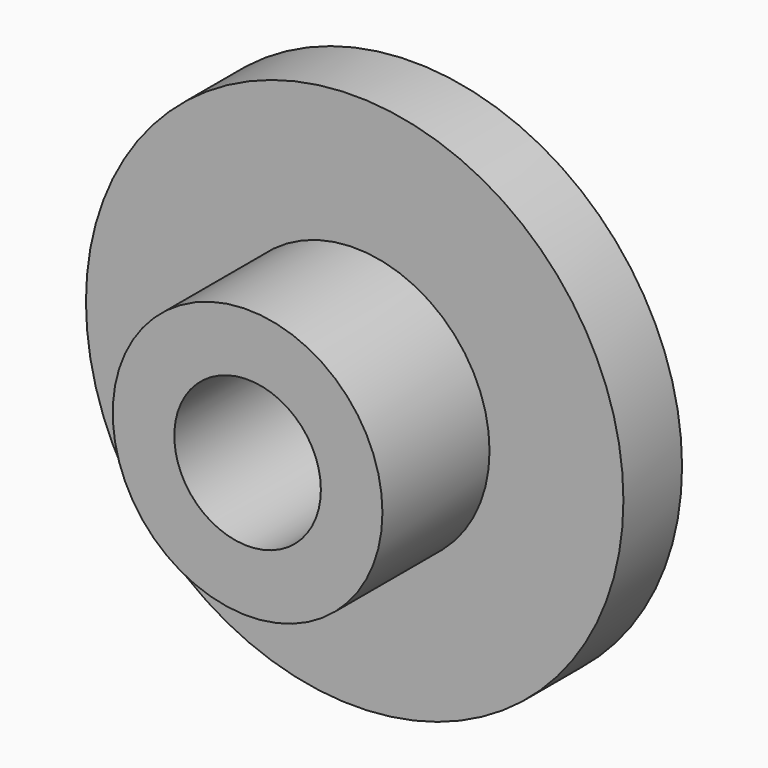
from build123d import *

# Parameters (mm, degrees)
F0_R     = 69.85
F1_DEPTH = 19.05
F2_R     = 35.052
F3_DEPTH = 34.798
F4_R     = 19.05
F5_DEPTH = 53.849


with BuildPart() as f1:
    # F0 (on Front) → F1 (new body)
    with BuildSketch(Plane.XZ):
        with Locations((-39.630193, -28.484197)):
            Circle(F0_R)
    extrude(amount=F1_DEPTH)

    # F2 (on face) → F3 (join)
    with BuildSketch(Plane.XZ.offset(19.05)):
        with Locations((-39.630193, -28.484197)):
            Circle(F2_R)
    extrude(amount=F3_DEPTH)

    # F4 (on face) → F5 (cut, through all)
    with BuildSketch(Plane.XZ.offset(53.848)):
        with Locations((-39.630193, -28.484197)):
            Circle(F4_R)
    extrude(amount=-F5_DEPTH, mode=Mode.SUBTRACT)


solid = f1.part
